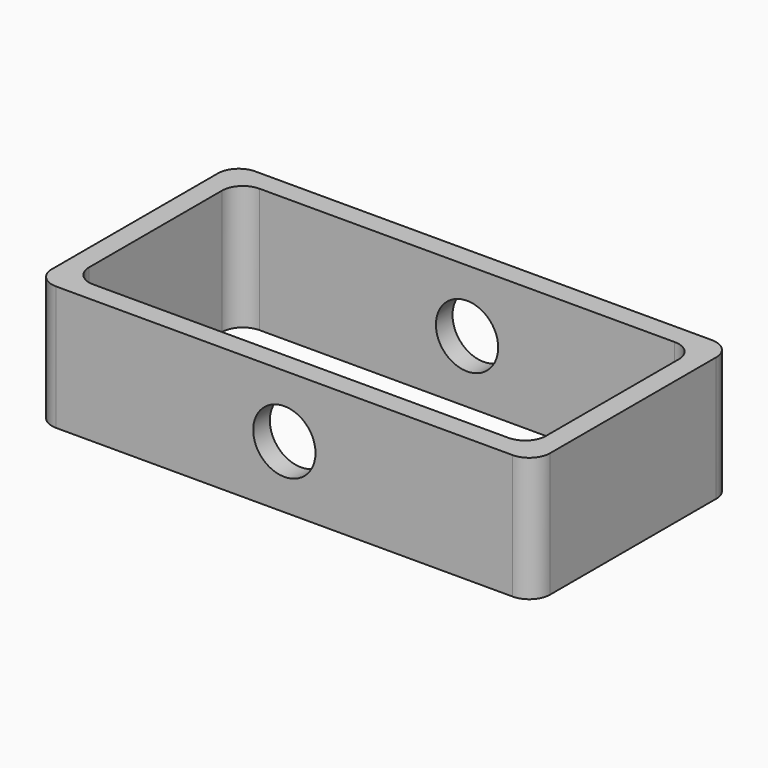
from build123d import *

# Parameters (mm, degrees)
F0_W          = 152.4
F0_H          = 76.2
F0_W_2        = 139.7
F0_H_2        = 63.5
F1_DEPTH      = 19.05
F2_R          = 9.525
F3_DEPTH      = 38.1
F3_DEPTH_BACK = 38.1
F4_R          = 6.35


with BuildPart() as f1:
    # F0 (on Top) → F1 (new body, symmetric)
    with BuildSketch(Plane.XY):
        Rectangle(F0_W, F0_H)
        Rectangle(F0_W_2, F0_H_2, mode=Mode.SUBTRACT)
    extrude(amount=F1_DEPTH, both=True)

    # F2 (on Front) → F3 (cut, two sides)
    with BuildSketch(Plane.XZ) as f3_sk:
        Circle(F2_R)
    extrude(amount=F3_DEPTH, mode=Mode.SUBTRACT)
    extrude(f3_sk.sketch, amount=-F3_DEPTH_BACK, mode=Mode.SUBTRACT)

    # F4
    f4_edges = [f1.edges().sort_by_distance(p)[0] for p in [
        (-69.85, -31.75, 0),
        (-69.85, 31.75, 0),
        (69.85, 31.75, 0),
        (69.85, -31.75, 0),
        (-76.2, -38.1, 0),
        (76.2, -38.1, 0),
        (76.2, 38.1, 0),
        (-76.2, 38.1, 0),
    ]]
    fillet(f4_edges, radius=F4_R)


solid = f1.part
